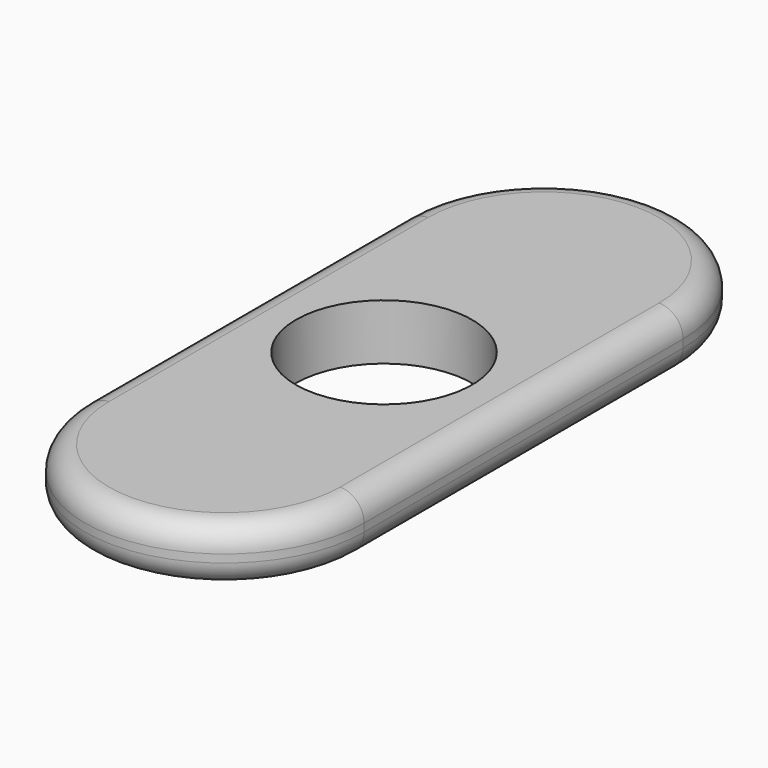
from build123d import *

# Parameters (mm, degrees)
F1_DEPTH = 7
F2_D     = 22.1
F3_R     = 3


with BuildPart() as f1:
    # F0 (on Top) → F1 (new body)
    with BuildSketch(Plane.XY):
        Polygon((-0.2911061255, 6.1655282974), (-17.7911061255, 31.1655282974), (-17.7911061255, -18.8344717026), align=None)
        with BuildLine():
            ThreePointArc((17.2088938745, 31.1655282974), (-0.2911061255, 48.6655282974), (-17.7911061255, 31.1655282974))
            Line((-17.7911061255, 31.1655282974), (17.2088938745, 31.1655282974))
        make_face()
        Polygon((17.2088938745, 31.1655282974), (-17.7911061255, 31.1655282974), (-0.2911061255, 6.1655282974), align=None)
        Polygon((-0.2911061255, 6.1655282974), (-17.7911061255, -18.8344717026), (17.2088938745, -18.8344717026), align=None)
        with BuildLine():
            Line((17.2088938745, -18.8344717026), (-17.7911061255, -18.8344717026))
            ThreePointArc((-17.7911061255, -18.8344717026), (-0.2911061255, -36.3344717026), (17.2088938745, -18.8344717026))
        make_face()
        Polygon((17.2088938745, -18.8344717026), (17.2088938745, 31.1655282974), (-0.2911061255, 6.1655282974), align=None)
    extrude(amount=F1_DEPTH)

    # F2 (through all)
    with Locations(Plane(origin=(0, 0, 0), x_dir=(1, 0, 0), z_dir=(0, 0, -1))):
        with Locations((-0.2911061255, -6.1655282974)):
            Hole(F2_D / 2)

    # F3
    f3_edges = [f1.edges().sort_by_distance(p)[0] for p in [
        (17.208894, -18.834472, 3.5),
        (17.208894, 31.165528, 3.5),
        (17.208894, 6.165528, 0),
        (17.208894, 6.165528, 7),
        (-17.791106, -18.834472, 3.5),
        (-0.291106, -36.334472, 0),
        (-0.291106, -36.334472, 7),
        (-17.791106, 31.165528, 3.5),
        (-17.791106, 6.165528, 0),
        (-17.791106, 6.165528, 7),
    ]]
    fillet(f3_edges, radius=F3_R)


solid = f1.part
